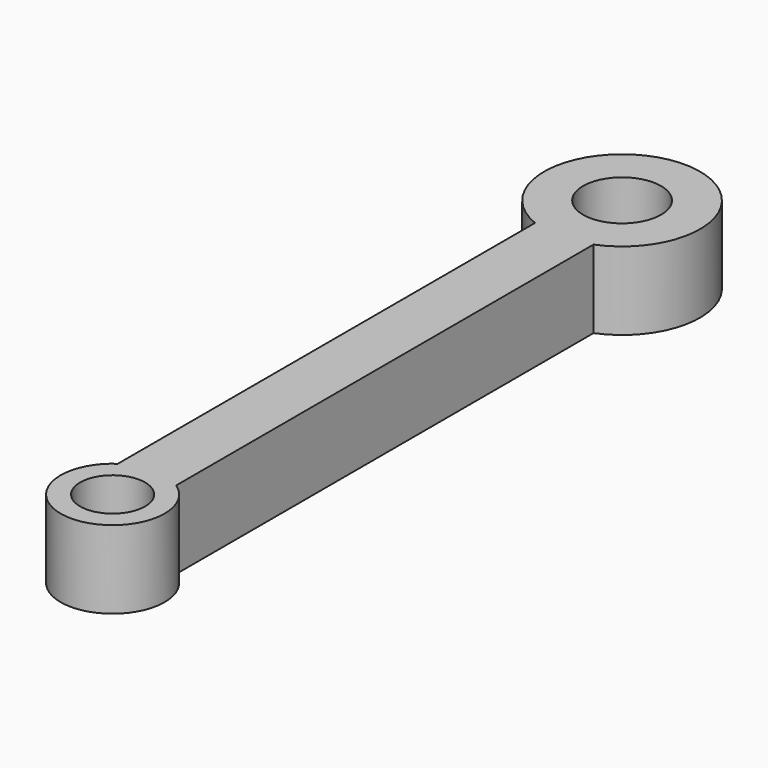
from build123d import *

# Parameters (mm, degrees)
F0_R     = 2
F0_R_2   = 3
F1_DEPTH = 6
F2_R     = 2.5
F3_DEPTH = 8.1


with BuildPart() as f1:
    # F0 (on Top) → F1 (new body)
    with BuildSketch(Plane.XY):
        with BuildLine():
            Line((-2.25, 43.437851), (-2.25, 3.307189))
            ThreePointArc((-2.25, 3.307189), (0, -4), (2.25, 3.307189))
            Line((2.25, 3.307189), (2.25, 43.437851))
            ThreePointArc((2.25, 43.437851), (0, 55), (-2.25, 43.437851))
        make_face()
        Circle(F0_R, mode=Mode.SUBTRACT)
        with Locations((0, 49)):
            Circle(F0_R_2, mode=Mode.SUBTRACT)
    extrude(amount=F1_DEPTH)

    # F2 (on face) → F3 (cut)
    with BuildSketch(Plane.XY.offset(6)):
        Circle(F2_R)
    extrude(amount=-F3_DEPTH, mode=Mode.SUBTRACT)


solid = f1.part
